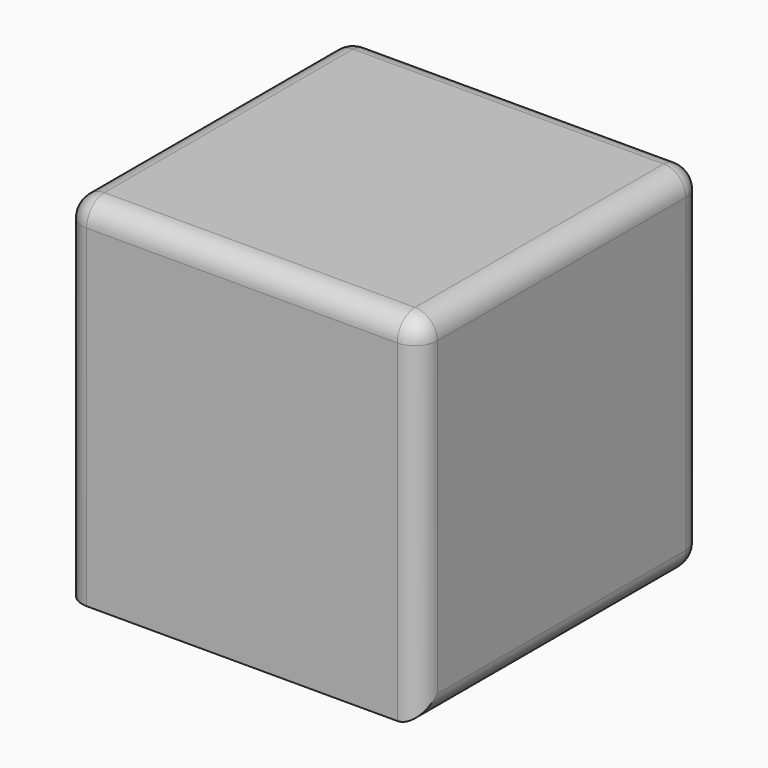
from build123d import *

# Parameters (mm, degrees)
F0_W     = 80
F0_H     = 80
F1_DEPTH = 40
F2_R     = 5


with BuildPart() as f1:
    # F0 (on Top) → F1 (new body, symmetric)
    with BuildSketch(Plane.XY):
        Rectangle(F0_W, F0_H)
    extrude(amount=F1_DEPTH, both=True)

    # F2
    f2_edges = [f1.edges().sort_by_distance(p)[0] for p in [
        (0, -40, 40),
        (0, 40, 40),
        (-40, 0, 40),
        (40, 0, 40),
        (40, 0, -40),
        (40, 40, 0),
        (40, -40, 0),
        (0, 40, -40),
        (-40, 40, 0),
        (-40, -40, 0),
    ]]
    fillet(f2_edges, radius=F2_R)


solid = f1.part
